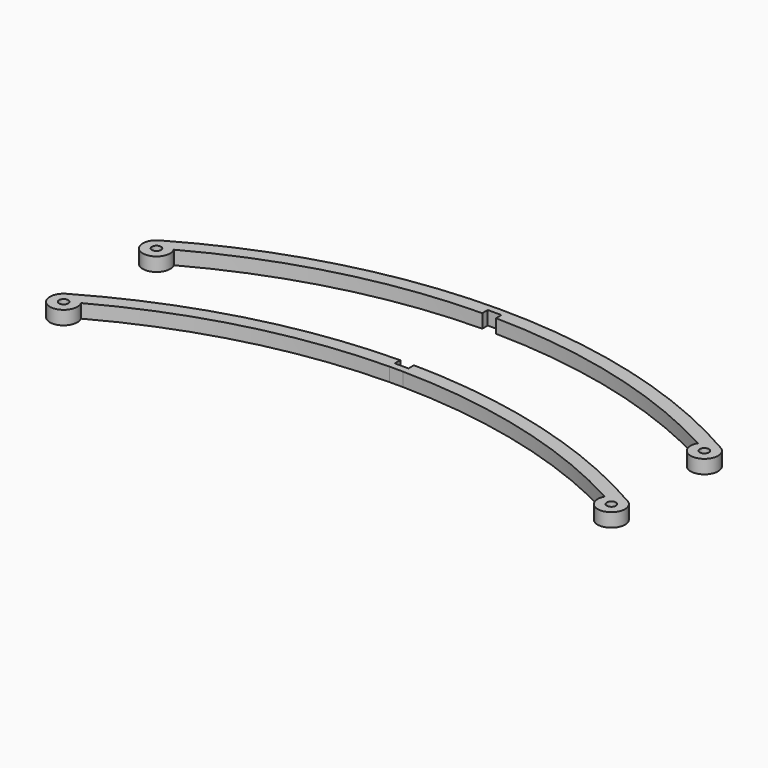
from build123d import *

# Parameters (mm, degrees)
F0_R     = 1
F1_DEPTH = 3


with BuildPart() as f1:
    # F0 (on Top) → F1 (new body)
    with BuildSketch(Plane.XY):
        with BuildLine():
            ThreePointArc((61.5, 2.598076), (31.834743, 14.885828), (0, 19.076952))
            ThreePointArc((0, 19.076952), (-31.834743, 14.885828), (-61.5, 2.598076))
            ThreePointArc((-61.5, 2.598076), (-60.794553, -2.892868), (-57.383377, 1.467407))
            ThreePointArc((-57.383377, 1.467407), (-30.33322, 12.179905), (-1.5, 16.067576))
            Line((-1.5, 16.067576), (-1.5, 17.567576))
            Line((-1.5, 17.567576), (0, 17.567576))
            Line((0, 17.567576), (1.5, 17.567576))
            Line((1.5, 17.567576), (1.5, 16.067576))
            ThreePointArc((1.5, 16.067576), (30.33322, 12.179905), (57.383377, 1.467407))
            ThreePointArc((57.383377, 1.467407), (60.794553, -2.892868), (61.5, 2.598076))
        make_face()
        with Locations((-60, 0)):
            Circle(F0_R, mode=Mode.SUBTRACT)
        with Locations((60, 0)):
            Circle(F0_R, mode=Mode.SUBTRACT)
        with BuildLine():
            Line((-1.56474, -7.796415), (-1.56474, -6.296415))
            ThreePointArc((-1.56474, -6.296415), (-32.613202, -10.677072), (-61.545144, -22.765903))
            ThreePointArc((-61.545144, -22.765903), (-60.839697, -28.256847), (-57.428521, -23.896572))
            ThreePointArc((-57.428521, -23.896572), (-30.38786, -13.186431), (-1.56474, -9.296415))
            Line((-1.56474, -9.296415), (1.43526, -9.296415))
            ThreePointArc((1.43526, -9.296415), (30.258379, -13.186431), (57.29904, -23.896572))
            ThreePointArc((57.29904, -23.896572), (60.710217, -28.256847), (61.415663, -22.765903))
            ThreePointArc((61.415663, -22.765903), (32.483721, -10.677072), (1.43526, -6.296415))
            Line((1.43526, -6.296415), (1.43526, -7.796415))
            Line((1.43526, -7.796415), (-0.06474, -7.796415))
            Line((-0.06474, -7.796415), (-1.56474, -7.796415))
        make_face()
        with Locations((-60.045144, -25.363979)):
            Circle(F0_R, mode=Mode.SUBTRACT)
        with Locations((59.915663, -25.363979)):
            Circle(F0_R, mode=Mode.SUBTRACT)
    extrude(amount=F1_DEPTH)


solid = f1.part
